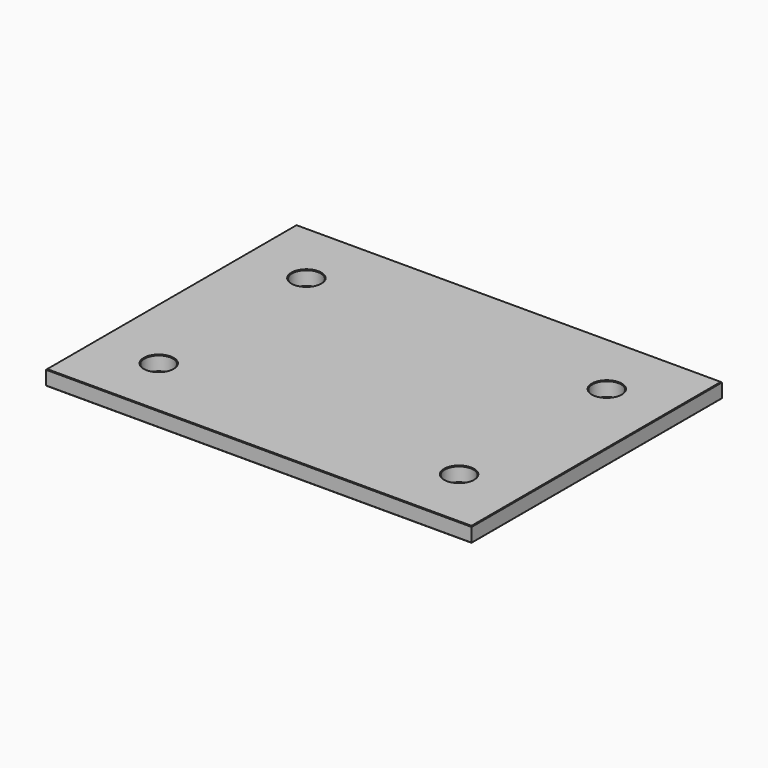
from build123d import *

# Parameters (mm, degrees)
F0_W     = 340
F0_H     = 250
F1_DEPTH = 12
F2_D     = 23
F3_SIZE  = 0.5


with BuildPart() as f1:
    # F0 (on Top) → F1 (new body)
    with BuildSketch(Plane.XY):
        Rectangle(F0_W, F0_H)
    extrude(amount=F1_DEPTH)

    # F2 (through all)
    with Locations(Plane(origin=(0, 0, 0), x_dir=(1, 0, 0), z_dir=(0, 0, -1))):
        with Locations((120, -72.5), (120, 75), (-120, 75), (-120, -72.5)):
            Hole(F2_D / 2)

    # F3
    f3_edges = [f1.edges().sort_by_distance(p)[0] for p in [
        (170, 0, 12),
        (0, -125, 12),
        (0, 125, 12),
        (-170, 0, 12),
        (-131.5, -75, 12),
        (108.5, -75, 12),
        (-131.5, 72.5, 12),
        (108.5, 72.5, 12),
        (170, 0, 0),
        (0, -125, 0),
        (0, 125, 0),
        (-170, 0, 0),
        (-131.5, -75, 0),
        (108.5, -75, 0),
        (-131.5, 72.5, 0),
        (108.5, 72.5, 0),
    ]]
    chamfer(f3_edges, length=F3_SIZE)


solid = f1.part
